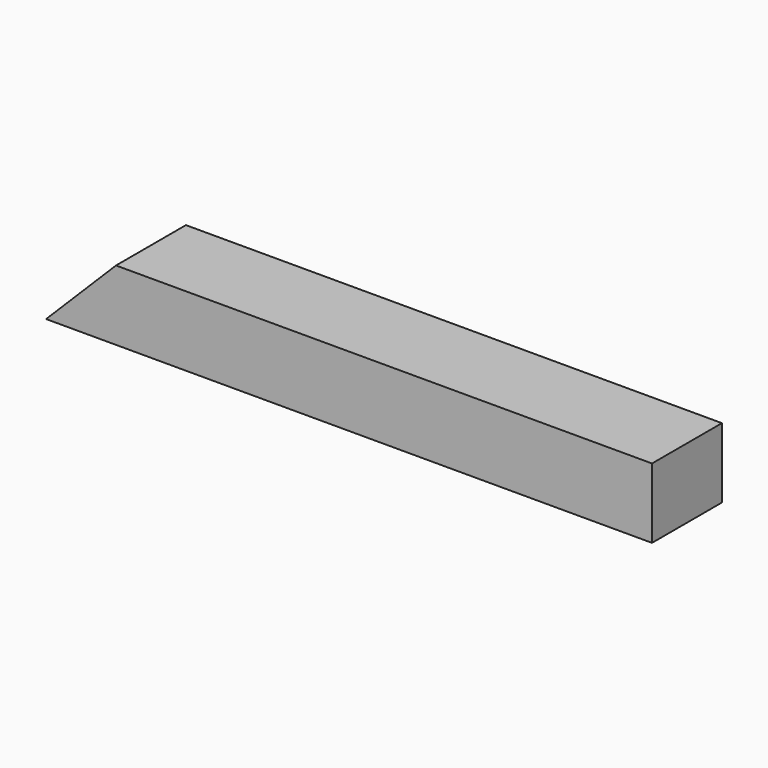
from build123d import *

# Parameters (mm, degrees)
F0_W     = 95.25
F0_H     = 76.2
F1_DEPTH = 660.4
F3_DEPTH = 95.251


with BuildPart() as f1:
    # F0 (on Right) → F1 (new body)
    with BuildSketch(Plane.YZ):
        with Locations((-47.625, -38.1)):
            Rectangle(F0_W, F0_H)
    extrude(amount=F1_DEPTH)

    # F2 (on face) → F3 (cut, through all)
    with BuildSketch(Plane.XZ.offset(95.25)):
        Polygon((0, 0), (0, -76.2), (76.2, 0), align=None)
    extrude(amount=-F3_DEPTH, mode=Mode.SUBTRACT)


solid = f1.part
